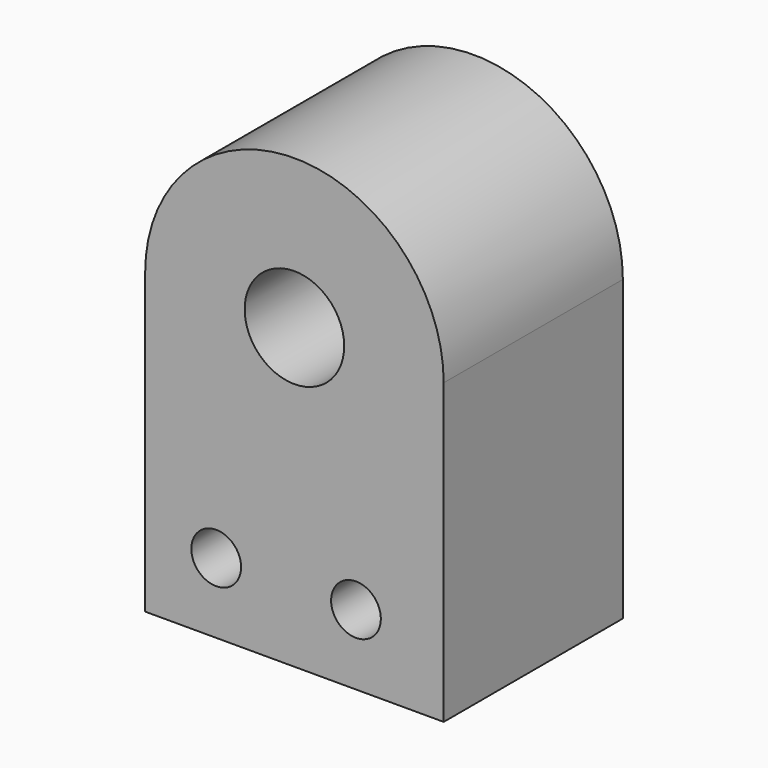
from build123d import *

# Parameters (mm, degrees)
F0_R     = 127
F0_R_2   = 254
F0_W     = 127
F0_H     = 127
F1_DEPTH = 1143
F2_DEPTH = 635


with BuildPart() as f1:
    # F0 (on Front) → F1 (new body)
    with BuildSketch(Plane.XZ):
        with BuildLine():
            Line((127, 127), (127, 0))
            Line((127, 0), (1397, 0))
            Line((1397, 0), (1397, 127))
            Line((1397, 127), (1524, 127))
            Line((1524, 127), (1524, 1524))
            Line((1524, 1524), (1270, 1524))
            ThreePointArc((1270, 1524), (762, 2032), (254, 1524))
            Line((254, 1524), (0, 1524))
            Line((0, 1524), (0, 127))
            Line((0, 127), (127, 127))
        make_face()
        with Locations((362.675786, 358.905613)):
            Circle(F0_R, mode=Mode.SUBTRACT)
        with Locations((1076.131582, 358.905613)):
            Circle(F0_R, mode=Mode.SUBTRACT)
        with Locations((762, 1524)):
            Circle(F0_R_2, mode=Mode.SUBTRACT)
        with Locations((63.5, 63.5)):
            Rectangle(F0_W, F0_H)
        with Locations((1460.5, 63.5)):
            Rectangle(F0_W, F0_H)
        with BuildLine():
            ThreePointArc((1524, 1524), (762, 2286), (0, 1524))
            Line((0, 1524), (254, 1524))
            ThreePointArc((254, 1524), (762, 2032), (1270, 1524))
            Line((1270, 1524), (1524, 1524))
        make_face()
    extrude(amount=F1_DEPTH)

    # F0 (on Front) → F2 (cut)
    with BuildSketch(Plane.XZ):
        with Locations((1460.5, 63.5)):
            Rectangle(F0_W, F0_H)
        with Locations((63.5, 63.5)):
            Rectangle(F0_W, F0_H)
    extrude(amount=-F2_DEPTH, mode=Mode.SUBTRACT)


solid = f1.part
